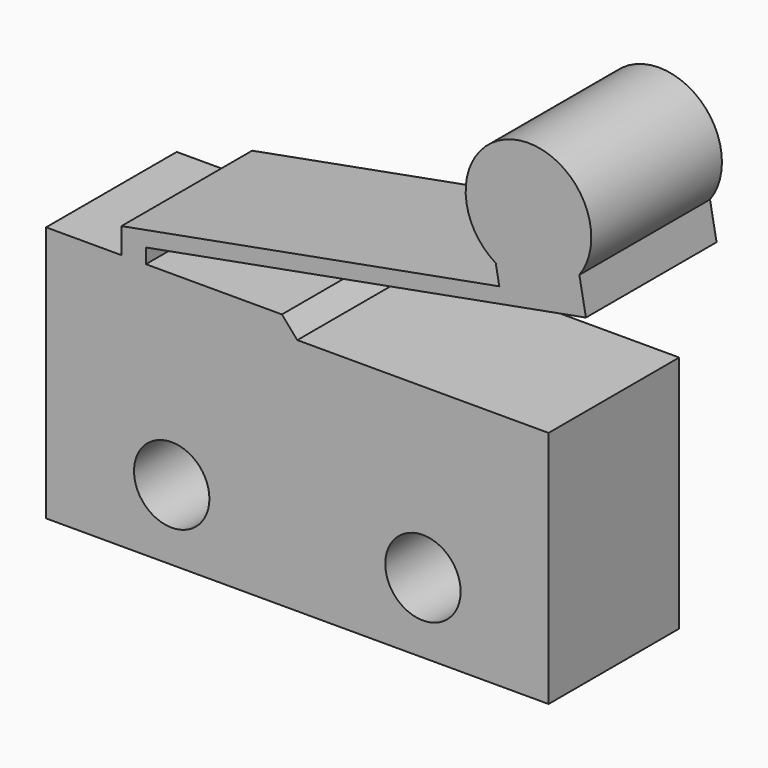
from build123d import *

# Parameters (mm, degrees)
F0_R     = 1.5
F1_DEPTH = 6.5


with BuildPart() as f1:
    # F0 (on Front) → F1 (new body)
    with BuildSketch(Plane.XZ):
        Polygon((-8.340434, 4.938039), (-8.340434, -5.261961), (11.659566, -5.261961), (11.659566, 4.238039), (1.659566, 4.238039), (1.045704, 4.938039), (-4.366579, 4.938039), (-5.340434, 4.938039), align=None)
        with Locations((-3.340434, -2.461961)):
            Circle(F0_R, mode=Mode.SUBTRACT)
        with Locations((6.659566, -2.461961)):
            Circle(F0_R, mode=Mode.SUBTRACT)
        Polygon((-8.340434, 4.938039), (-8.340434, -5.261961), (11.659566, -5.261961), (11.659566, 4.238039), (1.659566, 4.238039), (1.045704, 4.938039), (-4.366579, 4.938039), (-5.340434, 4.938039), align=None)
        with Locations((-3.340434, -2.461961)):
            Circle(F0_R, mode=Mode.SUBTRACT)
        with Locations((6.659566, -2.461961)):
            Circle(F0_R, mode=Mode.SUBTRACT)
        with BuildLine():
            Line((-5.340434, 5.956738), (-5.340434, 4.938039))
            Line((-5.340434, 4.938039), (-4.366579, 4.938039))
            Line((-4.366579, 4.938039), (-4.366579, 5.524251))
            Line((-4.366579, 5.524251), (13.146718, 8.761675))
            Line((13.146718, 8.761675), (12.885723, 10.173564))
            ThreePointArc((12.885723, 10.173564), (10.366926, 14.08902), (9.556615, 9.504423))
            Line((9.556615, 9.504423), (9.69852, 8.736767))
            Line((9.69852, 8.736767), (-5.340434, 5.956738))
        make_face()
    extrude(amount=F1_DEPTH)


solid = f1.part
